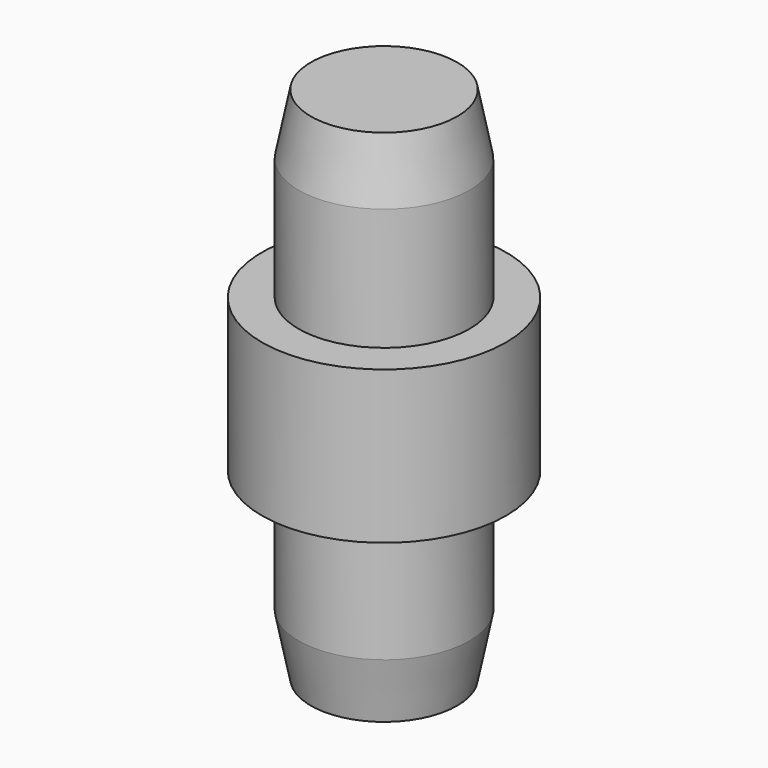
from build123d import *

# Parameters (mm, degrees)
F0_R     = 1.4
F1_DEPTH = 3
F2_R     = 2
F2_R_2   = 1.4
F3_DEPTH = 2.5
F4_R     = 1.4
F5_DEPTH = 3
F6_SIZE2 = 1
F6_SIZE  = 0.2
F7_SIZE2 = 0.2
F7_SIZE  = 1


with BuildPart() as f1:
    # F0 (on Top) → F1 (new body)
    with BuildSketch(Plane.XY):
        Circle(F0_R)
    extrude(amount=F1_DEPTH)

    # F7
    f7_edges = [f1.edges().sort_by_distance(p)[0] for p in [
        (-1.4, 0, 0),
    ]]
    f7_side = f1.faces().sort_by_distance((-1.4, 0, 1.5))[0]
    chamfer(f7_edges, length=F7_SIZE, length2=F7_SIZE2, reference=f7_side)


with BuildPart() as f3:
    # F2 (on face) → F3 (new body)
    with BuildSketch(Plane.XY.offset(3)):
        Circle(F2_R)
        Circle(F2_R_2, mode=Mode.SUBTRACT)
        Circle(F2_R_2)
    extrude(amount=F3_DEPTH)

    # F4 (on face) → F5 (join)
    with BuildSketch(Plane.XY.offset(5.5)):
        Circle(F4_R)
    extrude(amount=F5_DEPTH)

    # F6
    f6_edges = [f3.edges().sort_by_distance(p)[0] for p in [
        (-1.4, 0, 8.5),
    ]]
    f6_side = f3.faces().sort_by_distance((0, 0, 8.5))[0]
    chamfer(f6_edges, length=F6_SIZE, length2=F6_SIZE2, reference=f6_side)


solid = Compound([f1.part, f3.part])
